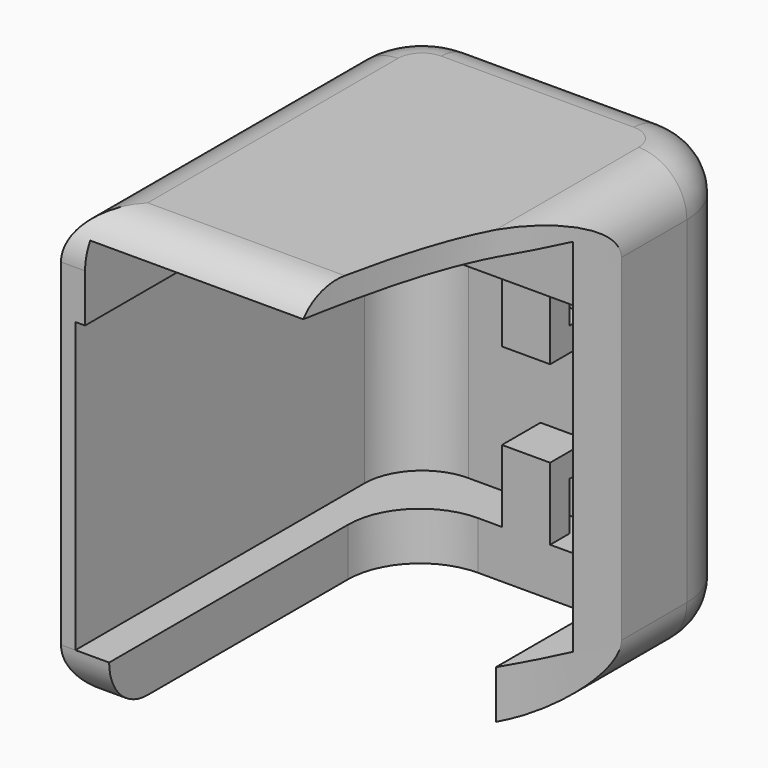
from build123d import *

# Parameters (mm, degrees)
PAD004_DEPTH    = 90
POCKET007_START = 10
POCKET007_DEPTH = 60
FILLET008_R     = 10
SKETCH015_W     = 61.4
SKETCH015_H     = 55
POCKET008_DEPTH = 15
POCKET009_DEPTH = 10.001
PAD005_DEPTH    = 10


with BuildPart() as part:
    # Sketch013 → Pad004 (new body)
    with BuildSketch(Plane.XY):
        with BuildLine():
            ThreePointArc((29.999995, 30), (25.606599, 40.6066), (15, 45))
            Line((15, 45), (-25.000005, 45))
            ThreePointArc((-25.000005, 45), (-35.606603, 40.6066), (-40, 30))
            Line((-40, 30), (-40, -45))
            Line((-40, -45), (9, -45))
            add(Edge.make_bspline(
                [(9, -45), (11.5, -31.160779), (17.030905, -12), (25.199995, 1.7), (29.999995, 13)],
                knots=[0, 0, 0, 0.285616, 0.631886, 1, 1, 1], degree=2))
            Line((29.999995, 13), (29.999995, 30))
        make_face()
    extrude(amount=PAD004_DEPTH)

    # Sketch014 → Pocket007 (cut)
    with BuildSketch(Plane.XY.offset(POCKET007_START)):
        with BuildLine():
            ThreePointArc((26.999996, 30), (23.485279, 38.48528), (15, 42))
            Line((15, 42), (-25.000004, 42))
            ThreePointArc((-25.000004, 42), (-33.485283, 38.48528), (-37, 30))
            Line((-37, 30), (-37, -45))
            Line((-37, -45), (12, -45))
            add(Edge.make_bspline(
                [(12, -45), (11.5, -31.160779), (19.243267, -12), (26.999996, 1.7), (26.999996, 13)],
                knots=[0, 0, 0, 0.285616, 0.631886, 1, 1, 1], degree=2))
            Line((26.999996, 13), (26.999996, 30))
        make_face()
    extrude(amount=POCKET007_DEPTH, mode=Mode.SUBTRACT)

    # Fillet008
    fillet008_edges = [part.edges().sort_by_distance(p)[0] for p in [
        (-15.5, -45, 90),
        (-40, -7.5, 90),
        (-35.606603, 40.6066, 90),
        (-5.000002, 45, 90),
        (25.606599, 40.6066, 90),
        (29.999995, 21.5, 90),
        (29.999995, 21.5, 0),
        (25.606599, 40.6066, 0),
        (-5.000002, 45, 0),
        (-35.606603, 40.6066, 0),
        (-40, -7.5, 0),
        (-15.5, -45, 0),
    ]]
    fillet(fillet008_edges, radius=FILLET008_R)

    # Sketch015 (on Face17 of Fillet008) → Pocket008 (cut)
    with BuildSketch(Plane(origin=(0, 0, 70), x_dir=(1, 0, 0), z_dir=(0, 0, -1))):
        with Locations((-4.3, 17.5)):
            Rectangle(SKETCH015_W, SKETCH015_H)
    extrude(amount=-POCKET008_DEPTH, mode=Mode.SUBTRACT)

    # Sketch017 (on Face19 of Pocket008) → Pocket009 (cut, through all)
    with BuildSketch(Plane.XY.offset(10)):
        with BuildLine():
            ThreePointArc((-15.000005, 32), (-25.606603, 27.6066), (-30, 17))
            Line((-30, 17), (-30, -45))
            Line((-30, -45), (20, -45))
            Line((20, 17), (20, -45))
            ThreePointArc((20, 17), (15.606603, 27.6066), (5.000005, 32))
            Line((-15.000005, 32), (5.000005, 32))
        make_face()
    extrude(amount=-POCKET009_DEPTH, mode=Mode.SUBTRACT)

    # Sketch016 → Pad005 (join)
    with BuildSketch(Plane.YZ):
        Polygon((32, 63), (32, 43), (42, 43), (42, 48), (37, 48), (37, 58), (42, 58), (42, 63), align=None)
        Polygon((32, 25), (32, 5), (42, 5), (42, 10), (37, 10), (37, 20), (42, 20), (42, 25), align=None)
    extrude(amount=-PAD005_DEPTH)


with BuildPart() as part_1:
    # Body007 placement: moved
    add(part.part.moved(Location((253, 0, 0))))


solid = part_1.part
